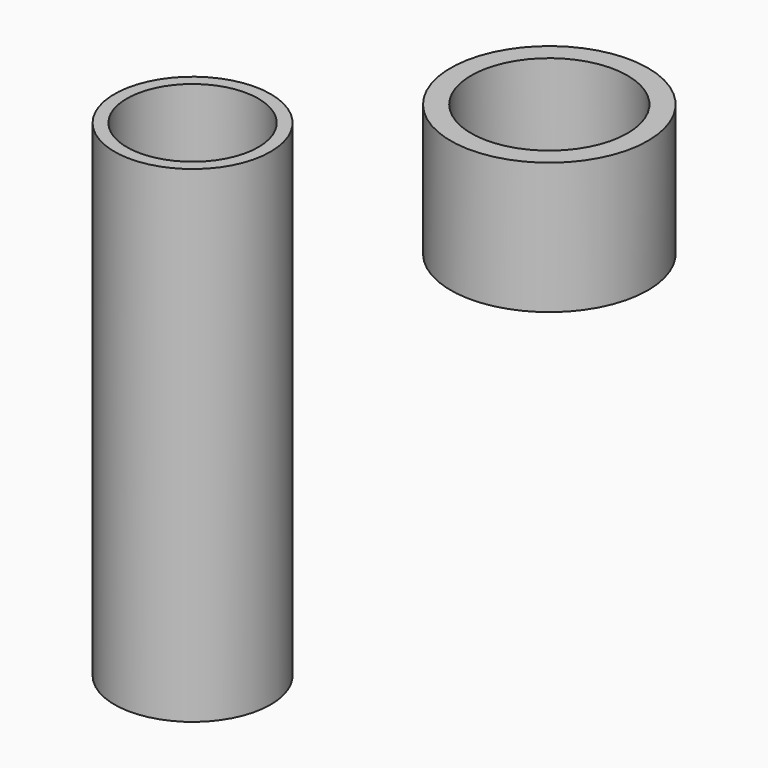
from build123d import *

# Parameters (mm, degrees)
F0_R     = 30.1625
F0_R_2   = 25.4
F1_DEPTH = 187.96
F2_R     = 38.1
F2_R_2   = 30.2006
F3_DEPTH = 50.8


with BuildPart() as f1:
    # F0 (on Top) → F1 (new body)
    with BuildSketch(Plane.XY):
        Circle(F0_R)
        Circle(F0_R_2, mode=Mode.SUBTRACT)
    extrude(amount=-F1_DEPTH)


with BuildPart() as f3:
    # F2 (on Top) → F3 (new body)
    with BuildSketch(Plane.XY):
        with Locations((76.461911, 76.615334)):
            Circle(F2_R)
        with Locations((76.461911, 76.615334)):
            Circle(F2_R_2, mode=Mode.SUBTRACT)
    extrude(amount=-F3_DEPTH)


solid = Compound([f1.part, f3.part])
